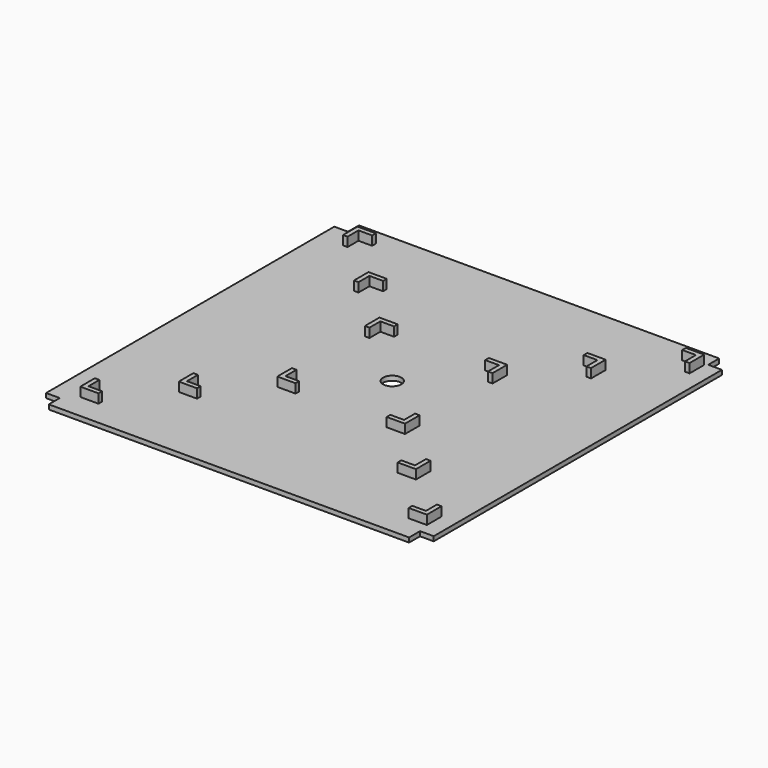
from build123d import *

# Parameters (mm, degrees)
F0_R     = 25.4
F1_DEPTH = 12.7
F3_DEPTH = 25.4


with BuildPart() as f1:
    # F0 (on Top) → F1 (new body)
    with BuildSketch(Plane.XY):
        Polygon((-514.35, 488.95), (-552.45, 488.95), (-552.45, -514.35), (-514.35, -514.35), (-514.35, -552.45), (488.95, -552.45), (488.95, -514.35), (527.05, -514.35), (527.05, 488.95), (488.95, 488.95), (488.95, 527.05), (-514.35, 527.05), align=None)
        Circle(F0_R, mode=Mode.SUBTRACT)
    extrude(amount=F1_DEPTH)

    # F2 (on face) → F3 (join)
    with BuildSketch(Plane.XY.offset(12.7)):
        Polygon((-330.2, 330.2), (-330.2, 279.4), (-317.5, 279.4), (-317.5, 317.5), (-279.4, 317.5), (-279.4, 330.2), align=None)
        Polygon((-127, 177.8), (-177.8, 177.8), (-177.8, 127), (-165.1, 127), (-165.1, 165.1), (-127, 165.1), align=None)
        Polygon((-165.1, -127), (-177.8, -127), (-177.8, -177.8), (-127, -177.8), (-127, -165.1), (-165.1, -165.1), align=None)
        Polygon((177.8, 177.8), (127, 177.8), (127, 165.1), (165.1, 165.1), (165.1, 127), (177.8, 127), align=None)
        Polygon((330.2, 330.2), (279.4, 330.2), (279.4, 317.5), (317.5, 317.5), (317.5, 279.4), (330.2, 279.4), align=None)
        Polygon((177.8, -177.8), (177.8, -127), (165.1, -127), (165.1, -165.1), (127, -165.1), (127, -177.8), align=None)
        Polygon((482.6, 482.6), (431.8, 482.6), (431.8, 469.9), (469.9, 469.9), (469.9, 431.8), (482.6, 431.8), align=None)
        Polygon((-431.8, 482.6), (-482.6, 482.6), (-482.6, 431.8), (-469.9, 431.8), (-469.9, 469.9), (-431.8, 469.9), align=None)
        Polygon((-317.5, -279.4), (-330.2, -279.4), (-330.2, -330.2), (-279.4, -330.2), (-279.4, -317.5), (-317.5, -317.5), align=None)
        Polygon((-469.9, -431.8), (-482.6, -431.8), (-482.6, -482.6), (-431.8, -482.6), (-431.8, -469.9), (-469.9, -469.9), align=None)
        Polygon((330.2, -330.2), (330.2, -279.4), (317.5, -279.4), (317.5, -317.5), (279.4, -317.5), (279.4, -330.2), align=None)
        Polygon((431.8, -482.6), (482.6, -482.6), (482.6, -431.8), (469.9, -431.8), (469.9, -469.9), (431.8, -469.9), align=None)
    extrude(amount=F3_DEPTH)


solid = f1.part
